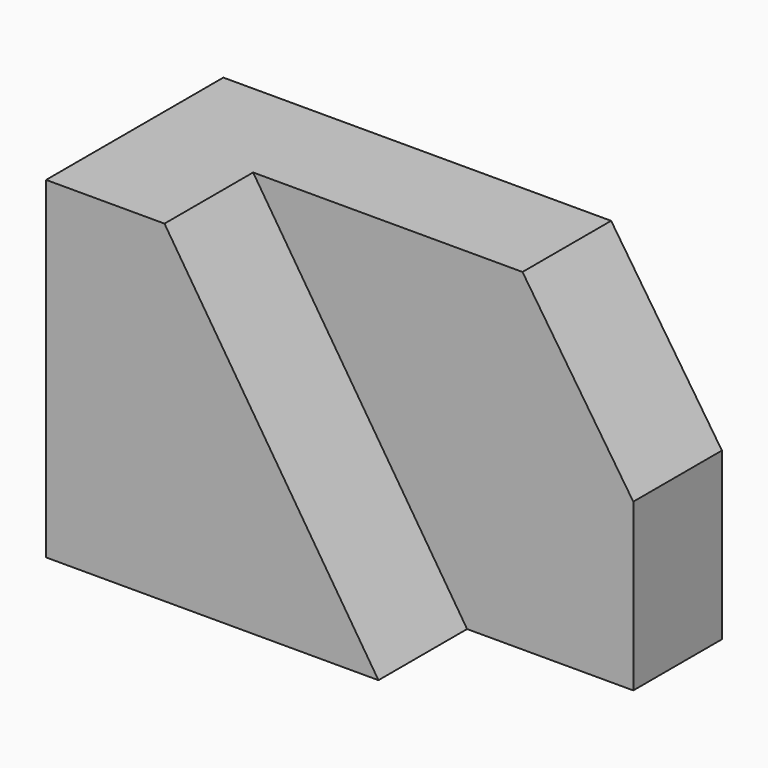
from build123d import *

# Parameters (mm, degrees)
F1_DEPTH = 25.4
F3_DEPTH = 25.4


with BuildPart() as f1:
    # F0 (on Front) → F1 (new body)
    with BuildSketch(Plane.XZ):
        Polygon((0, 76.2), (0, 0), (114.3, 0), (114.3, 38.1), (88.9, 76.2), align=None)
    extrude(amount=F1_DEPTH)

    # F2 (on face) → F3 (join)
    with BuildSketch(Plane.XZ.offset(25.4)):
        Polygon((27.145131, 76.2), (1.745131, 76.2), (0, 76.2), (0, 0), (76.2, 0), align=None)
    extrude(amount=F3_DEPTH)


solid = f1.part
